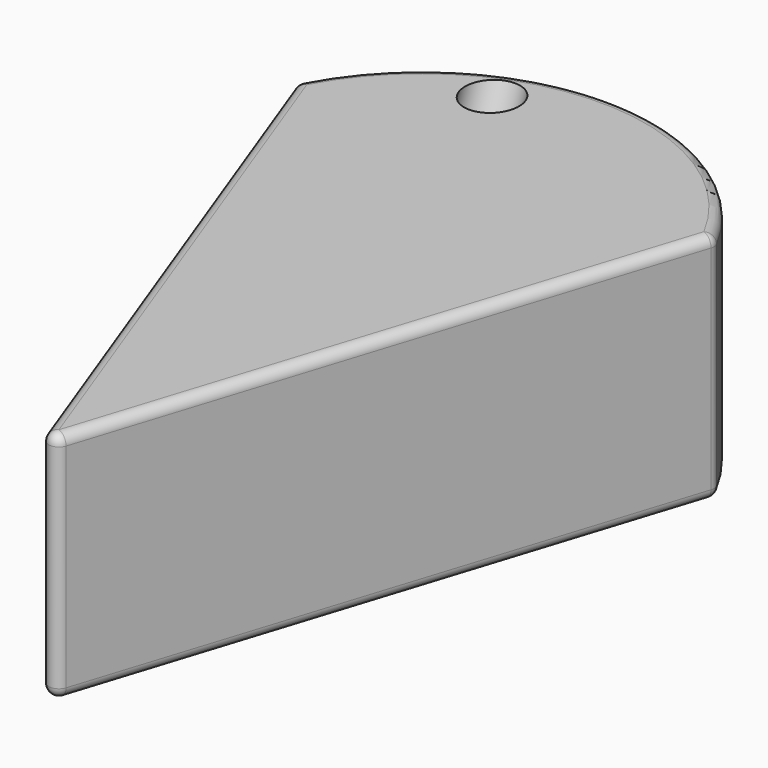
from build123d import *

# Parameters (mm, degrees)
F1_DEPTH = 29.464
F2_R     = 1.27
F5_R     = 3.406625
F6_DEPTH = 69.85


with BuildPart() as f1:
    # F0 (on Top) → F1 (new body)
    with BuildSketch(Plane.XY):
        with BuildLine():
            Line((-28.468408, 35.929885), (0, -40.98073))
            Line((0, -40.98073), (24.565481, 35.929885))
            ThreePointArc((24.565481, 35.929885), (-1.951464, 52.258484), (-28.468408, 35.929885))
        make_face()
    extrude(amount=F1_DEPTH)

    # F2
    f2_edges = [f1.edges().sort_by_distance(p)[0] for p in [
        (0, -40.98073, 14.732),
        (-14.234204, -2.525423, 0),
        (-14.234204, -2.525423, 29.464),
        (12.28274, -2.525423, 0),
        (12.28274, -2.525423, 29.464),
        (-1.951464, 52.258484, 29.464),
        (24.565481, 35.929885, 14.732),
        (-28.468408, 35.929885, 14.732),
        (-1.951464, 52.258484, 0),
    ]]
    fillet(f2_edges, radius=F2_R)

    # F5 (on face) → F6 (cut, symmetric)
    with BuildSketch(Plane(origin=(0, 0.313899, 0.862432), x_dir=(1, 0, 0), z_dir=(0, -0.34202, -0.939693))):
        with Locations((-11.22538, -32.5252)):
            Circle(F5_R)
    extrude(amount=F6_DEPTH, both=True, mode=Mode.SUBTRACT)


solid = f1.part
